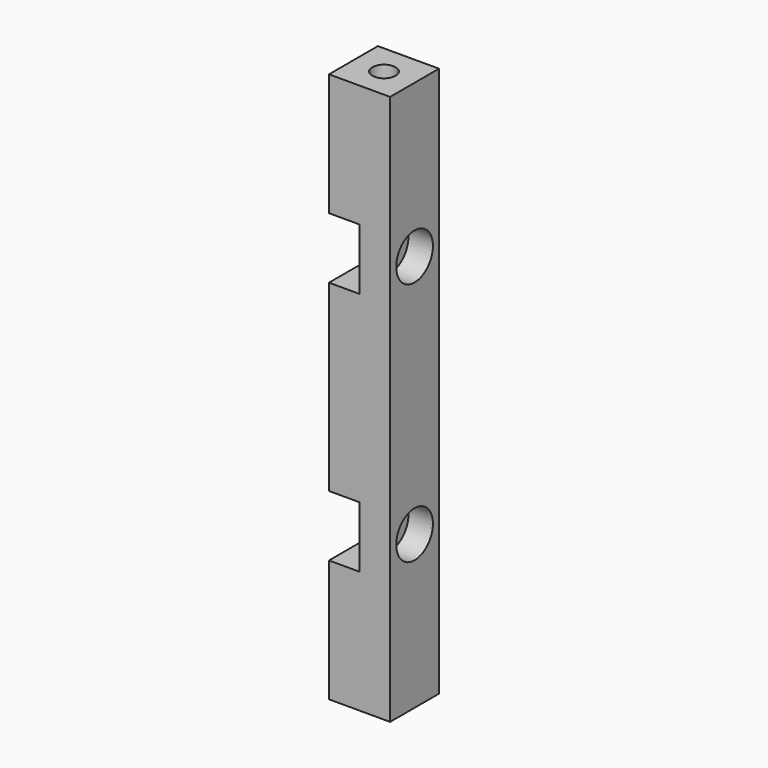
from build123d import *

# Parameters (mm, degrees)
F0_W      = 12.7
F0_H      = 114.3
F1_DEPTH  = 12.7
F2_W      = 6.35
F2_H      = 12.7
F3_DEPTH  = 12.701
F4_R      = 2.794
F5_DEPTH  = 6.351
F6_R      = 4.7625
F7_DEPTH  = 5.08
F8_R      = 2.413
F9_DEPTH  = 9.525
F10_R     = 2.413
F11_DEPTH = 9.525


with BuildPart() as f1:
    # F0 (on Right) → F1 (new body)
    with BuildSketch(Plane.YZ):
        with Locations((-6.35, 0)):
            Rectangle(F0_W, F0_H)
    extrude(amount=F1_DEPTH)

    # F2 (on face) → F3 (cut, through all)
    with BuildSketch(Plane(origin=(0, 0, 0), x_dir=(-1, 0, 0), z_dir=(0, 1, 0))):
        with Locations((-3.175, 25.4)):
            Rectangle(F2_W, F2_H)
        with Locations((-3.175, -25.4)):
            Rectangle(F2_W, F2_H)
    extrude(amount=-F3_DEPTH, mode=Mode.SUBTRACT)

    # F4 (on face) → F5 (cut, through all)
    with BuildSketch(Plane(origin=(6.35, 0, 0), x_dir=(0, -1, 0), z_dir=(-1, 0, 0))):
        with Locations((6.35, 25.4)):
            Circle(F4_R)
        with Locations((6.35, -25.4)):
            Circle(F4_R)
    extrude(amount=-F5_DEPTH, mode=Mode.SUBTRACT)

    # F6 (on face) → F7 (cut)
    with BuildSketch(Plane.YZ.offset(12.7)):
        with Locations((-6.35, 25.4)):
            Circle(F6_R)
        with Locations((-6.35, -25.4)):
            Circle(F6_R)
    extrude(amount=-F7_DEPTH, mode=Mode.SUBTRACT)

    # F8 (on face) → F9 (cut)
    with BuildSketch(Plane.XY.offset(57.15)):
        with Locations((6.35, -6.35)):
            Circle(F8_R)
    extrude(amount=-F9_DEPTH, mode=Mode.SUBTRACT)

    # F10 (on face) → F11 (cut)
    with BuildSketch(Plane(origin=(0, 0, -57.15), x_dir=(1, 0, 0), z_dir=(0, 0, -1))):
        with Locations((6.35, 6.35)):
            Circle(F10_R)
    extrude(amount=-F11_DEPTH, mode=Mode.SUBTRACT)


solid = f1.part
